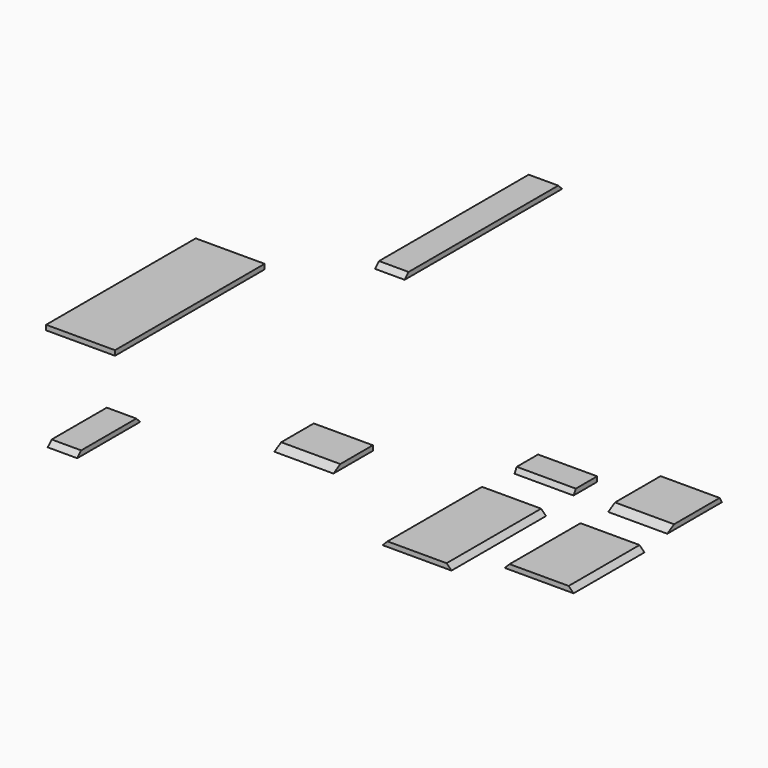
from build123d import *

# Parameters (mm, degrees)
F0_W      = 88.9
F0_H      = 152.4
F1_DEPTH  = 6.35
F3_DEPTH  = 152.401
F4_W      = 76.2
F4_H      = 38.1
F5_DEPTH  = 6.35
F7_DEPTH  = 82.551
F9_W      = 76.2
F9_H      = 88.138
F10_DEPTH = 6.35
F12_DEPTH = 208.3857549435
F13_W     = 88.9
F13_H     = 38.1
F14_DEPTH = 6.351
F15_W     = 76.2
F15_H     = 63.5
F16_DEPTH = 6.35
F18_DEPTH = 428.2933748732
F19_W     = 88.9
F19_H     = 241.3
F20_DEPTH = 6.35
F21_W     = 38.1
F21_H     = 254
F22_DEPTH = 6.35
F24_DEPTH = 598.2312217484
F25_W     = 38.1
F25_H     = 101.6
F26_DEPTH = 6.35
F28_DEPTH = 612.6011565456


with BuildPart() as f1:
    # F0 (on Top) → F1 (new body)
    with BuildSketch(Plane.XY):
        Rectangle(F0_W, F0_H)
    extrude(amount=F1_DEPTH)

    # F2 (on face) → F3 (cut, through all)
    with BuildSketch(Plane.XZ.offset(76.2)):
        Polygon((44.45, 0), (44.45, 6.35), (38.1, 6.35), align=None)
        Polygon((-38.1, 6.35), (-44.45, 6.35), (-44.45, 0), align=None)
    extrude(amount=-F3_DEPTH, mode=Mode.SUBTRACT)


with BuildPart() as f5:
    # F4 (on Top) → F5 (new body)
    with BuildSketch(Plane.XY):
        with Locations((0, 147.5176820167)):
            Rectangle(F4_W, F4_H)
    extrude(amount=F5_DEPTH)

    # F6 (on face) → F7 (cut, through all)
    with BuildSketch(Plane(origin=(-38.1, 0, 0), x_dir=(0, -1, 0), z_dir=(-1, 0, 0))):
        Polygon((-132.133856226, 6.35), (-128.4676820167, 0), (-128.4676820167, 6.35), align=None)
    extrude(amount=-F7_DEPTH, mode=Mode.SUBTRACT)


with BuildPart() as f8_1:
    # F8: copy of F1
    add(f1.part.moved(Location((127, 0, 0))))

    # F13 (on face) → F14 (cut, through all)
    with BuildSketch(Plane(origin=(0, 0, 0), x_dir=(1, 0, 0), z_dir=(0, 0, -1))):
        with Locations((127, 57.15)):
            Rectangle(F13_W, F13_H)
    extrude(amount=-F14_DEPTH, mode=Mode.SUBTRACT)


with BuildPart() as f10:
    # F9 (on Top) → F10 (new body)
    with BuildSketch(Plane.XY):
        with Locations((125.8347549435, 166.3745697414)):
            Rectangle(F9_W, F9_H)
    extrude(amount=F10_DEPTH)

    # F11 (on face) → F12 (cut, through all)
    with BuildSketch(Plane.YZ.offset(163.9347549435)):
        Polygon((122.3055697414, 6.35), (122.3055697414, 0), (133.3040923695, 6.35), align=None)
        Polygon((206.7773955321, 6.35), (210.4435697414, 0), (210.4435697414, 6.35), align=None)
    extrude(amount=-F12_DEPTH, mode=Mode.SUBTRACT)


with BuildPart() as f16:
    # F15 (on Top) → F16 (new body)
    with BuildSketch(Plane.XY):
        with Locations((-218.7423748732, 46.5687926128)):
            Rectangle(F15_W, F15_H)
    extrude(amount=F16_DEPTH)

    # F17 (on face) → F18 (cut, through all)
    with BuildSketch(Plane(origin=(-256.8423748732, 0, 0), x_dir=(0, -1, 0), z_dir=(-1, 0, 0))):
        Polygon((-25.8173152409, 6.35), (-14.8187926128, 0), (-14.8187926128, 6.35), align=None)
    extrude(amount=-F18_DEPTH, mode=Mode.SUBTRACT)


with BuildPart() as f20:
    # F19 (on Top) → F20 (new body)
    with BuildSketch(Plane.XY):
        with Locations((-557.4112534523, 198.6187406094)):
            Rectangle(F19_W, F19_H)
    extrude(amount=F20_DEPTH)


with BuildPart() as f22:
    # F21 (on Top) → F22 (new body)
    with BuildSketch(Plane.XY):
        with Locations((-407.7302217484, 516.6475176811)):
            Rectangle(F21_W, F21_H)
    extrude(amount=F22_DEPTH)

    # F23 (on face) → F24 (cut, through all)
    with BuildSketch(Plane(origin=(-426.7802217484, 0, 0), x_dir=(0, -1, 0), z_dir=(-1, 0, 0))):
        Polygon((-643.6475176811, 6.35), (-643.6475176811, 0), (-637.2975176811, 6.35), align=None)
        Polygon((-395.9975176811, 6.35), (-389.6475176811, 0), (-389.6475176811, 6.35), align=None)
    extrude(amount=-F24_DEPTH, mode=Mode.SUBTRACT)


with BuildPart() as f26:
    # F25 (on Top) → F26 (new body)
    with BuildSketch(Plane.XY):
        with Locations((-422.1001565456, -69.4943308092)):
            Rectangle(F25_W, F25_H)
    extrude(amount=F26_DEPTH)

    # F27 (on face) → F28 (cut, through all)
    with BuildSketch(Plane(origin=(-441.1501565456, 0, 0), x_dir=(0, -1, 0), z_dir=(-1, 0, 0))):
        Polygon((18.6943308092, 6.35), (18.6943308092, 0), (25.0443308092, 6.35), align=None)
        Polygon((113.9443308092, 6.35), (120.2943308092, 0), (120.2943308092, 6.35), align=None)
    extrude(amount=-F28_DEPTH, mode=Mode.SUBTRACT)


solid = Compound([f1.part, f5.part, f8_1.part, f10.part, f16.part, f20.part, f22.part, f26.part])
